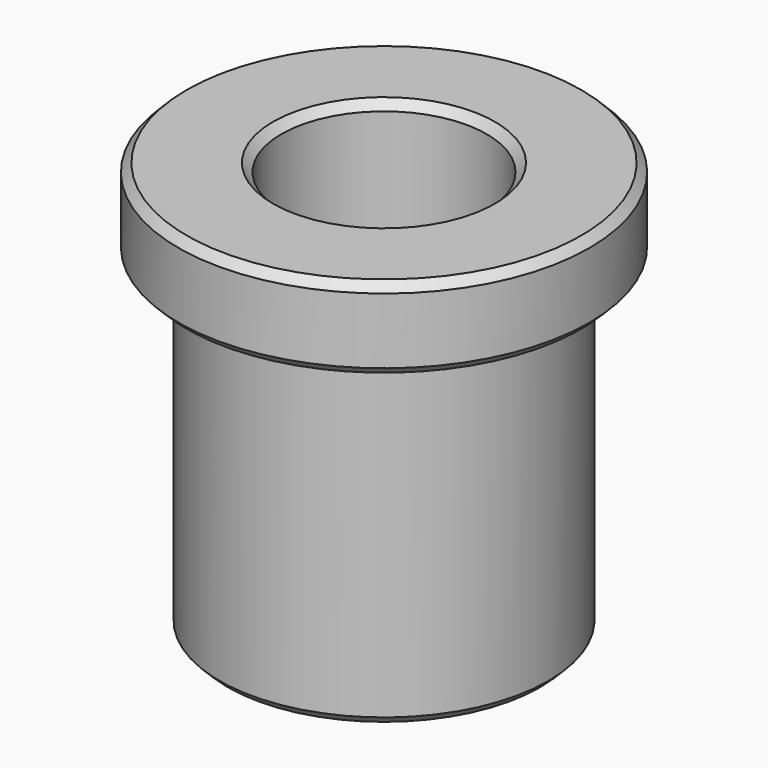
from build123d import *

# Parameters (mm, degrees)
F2_SIZE = 0.2
F3_SIZE = 0.2


with BuildPart() as f1:
    # F0 (on Front) → F1 (revolve)
    with BuildSketch(Plane.XZ):
        Polygon((0, 0), (0, 10), (-2.5, 10), (-2.5, 8), (-1.5, 8), (-1.5, 0), align=None)
    revolve(axis=Axis((2.5, 0, 4.0499057987), (0, 0, -1)))

    # F2
    f2_edges = [f1.edges().sort_by_distance(p)[0] for p in [
        (5, 0, 10),
        (7.5, 0, 10),
    ]]
    chamfer(f2_edges, length=F2_SIZE)

    # F3
    f3_edges = [f1.edges().sort_by_distance(p)[0] for p in [
        (7.5, 0, 8),
        (6.5, 0, 0),
    ]]
    chamfer(f3_edges, length=F3_SIZE)


solid = f1.part
